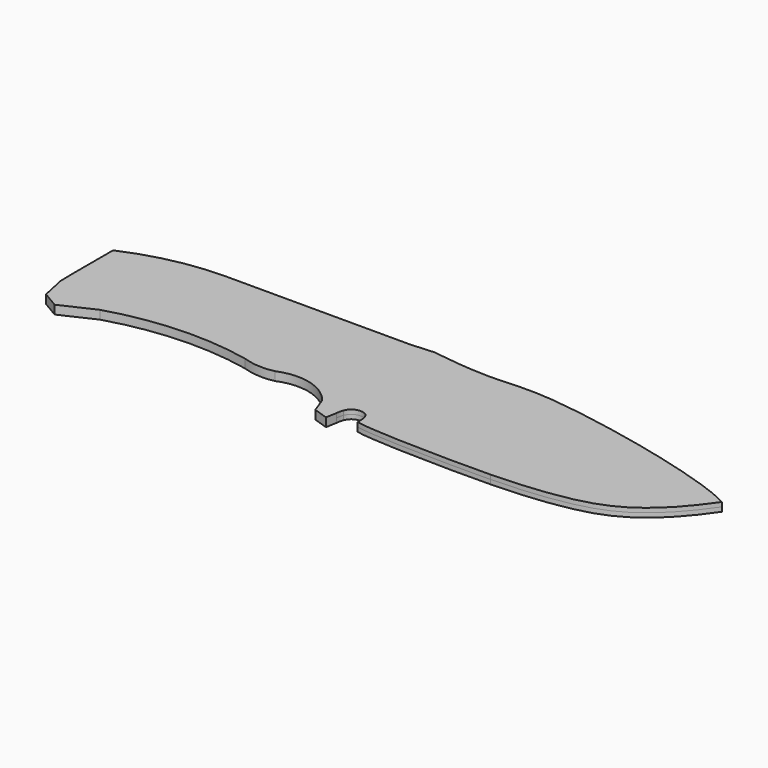
from build123d import *

# Parameters (mm, degrees)
F1_DEPTH      = 1.5875
F2_DEPTH      = 1.5875
F3_DEPTH      = 1.5875
F3_DEPTH_BACK = 1.5875


with BuildPart() as f1:
    # F0 (on Top) → F1 (new body)
    with BuildSketch(Plane.XY):
        with BuildLine():
            Line((-101.5884131193, -18.8973024487), (-89.4398242235, -13.247538358))
            ThreePointArc((-89.4398242235, -13.247538358), (-63.9605427044, -8.860636447), (-38.1898805499, -10.9370918944))
            ThreePointArc((-38.1898805499, -10.9370918944), (-32.4660196125, -12.0949158123), (-26.640561875, -11.6860363632))
            ThreePointArc((-26.640561875, -11.6860363632), (-14.7586255851, -10.8029487579), (-4.7904760577, -17.3295289278))
            Line((-4.7904760577, -17.3295289278), (-2.6797975879, -23.1362432241))
            Line((-2.6797975879, -23.1362432241), (2.6188781485, -24.9024685472))
            Line((2.6188781485, -24.9024685472), (3.3253682777, -20.8401493728))
            add(Edge.make_bspline(
                [(3.8662650694, -18.4174778796), (3.611906377, -19.0656781935), (3.4231723145, -19.8621077155), (3.3253682777, -20.8401493728)],
                knots=[0.9006018819, 0.9006018819, 0.9006018819, 0.9006018819, 1, 1, 1, 1], degree=3))
            ThreePointArc((3.8662650694, -18.4174778796), (9.6420642738, -2.2568424674), (17.1927238868, 13.1546315953))
            add(Edge.make_bspline(
                [(19.2337166518, 14.6902082488), (18.6318591554, 14.4187646386), (17.59365201, 13.7314004824), (17.1927238868, 13.1546315953)],
                knots=[0, 0, 0, 0, 2.5541431294, 2.5541431294, 2.5541431294, 2.5541431294], degree=3))
            add(Edge.make_bspline(
                [(83.2952766221, 17.6661035357), (80.4809135378, 16.6286477767), (74.7370679332, 14.5111030682), (64.3408485466, 15.5369801541), (53.4850420824, 16.9731062249), (39.4603352069, 19.1405437268), (27.191213055, 18.2323443266), (21.8879047106, 15.9122857049), (19.2337166518, 14.6902082488)],
                knots=[0, 0, 0, 0, 0.1519877595, 0.3134001461, 0.4827768067, 0.6751193638, 0.8516699299, 1, 1, 1, 1], degree=3))
            add(Edge.make_bspline(
                [(83.2952766221, 17.6661035357), (75.4343407531, 19.4467237762), (66.8526441437, 21.1255448484), (57.3383793235, 22.663006559)],
                knots=[0.6805820288, 0.6805820288, 0.6805820288, 0.6805820288, 1, 1, 1, 1], degree=3))
            add(Edge.make_bspline(
                [(57.3383793235, 22.663006559), (51.3860041145, 23.5646728097), (39.5545116639, 25.1027234946), (25.1310915838, 23.9086109925), (18.7821781751, 24.0979107297), (10.2035533763, 24.7548514651), (6.1330744065, 25.4)],
                knots=[0, 0, 0, 0, 0.3045684162, 0.5682644154, 0.7491025184, 1, 1, 1, 1], degree=3))
            Line((6.1330744065, 25.4), (1.5553526144, 25.95639154))
            Line((1.5553526144, 25.95639154), (-6.6837654449, 25.4))
            Line((-6.6837654449, 25.4), (-20.9665372968, 25.4))
            Line((-20.9665372968, 25.4), (-73.9454105496, 25.4))
            ThreePointArc((-73.9454105496, 25.4), (-92.1467392312, 23.4934617336), (-109.5579192042, 17.8566128016))
            Line((-109.5579192042, 17.8566128016), (-109.5579192042, -1.152076642))
            Line((-109.5579192042, -1.152076642), (-109.4557195902, -6.2945531681))
            Line((-109.4557195902, -6.2945531681), (-107.5249388814, -15.3543483466))
            Line((-107.5249388814, -15.3543483466), (-101.5884131193, -18.8973024487))
        make_face()
    extrude(amount=F1_DEPTH)

    # F2 (add): a face of the model
    f2_faces = [f1.faces().sort_by_distance(p)[0] for p in [
        (-39.6121775227, 7.2978383867, 0),
    ]]
    extrude(f2_faces, amount=F2_DEPTH)

    # F0 (on Top) → F3 (join, two sides)
    with BuildSketch(Plane.XY) as f3_sk:
        with BuildLine():
            ThreePointArc((17.1927238868, 13.1546315953), (9.6420642738, -2.2568424674), (3.8662650694, -18.4174778796))
            add(Edge.make_bspline(
                [(11.5028988087, -21.510926818), (11.6403456009, -18.4112889852), (10.6938808175, -15.9301904115), (7.0077218043, -15.3266314496), (4.5871981853, -16.580272839), (3.8662650694, -18.4174778796)],
                knots=[0, 0, 0, 0, 0.354240575, 0.6188761258, 0.9006018819, 0.9006018819, 0.9006018819, 0.9006018819], degree=3))
            add(Edge.make_bspline(
                [(61.4279137712, -23.1528356665), (55.5369847146, -23.2709089404), (40.3623363295, -23.3563614522), (16.3717952101, -22.5488794213), (11.5028988087, -21.510926818)],
                knots=[0, 0, 0, 0, 0.4717155518, 1, 1, 1, 1], degree=3))
            add(Edge.make_bspline(
                [(61.4279137712, -23.1528356665), (69.7385266657, -23.0155210755), (95.0642582897, -21.4162605515), (111.9931118186, -10.1613653445), (119.5524930257, -1.1537255666), (123.7895080587, 4.9438558941)],
                knots=[0, 0, 0, 0, 0.3929440031, 0.7004054275, 1, 1, 1, 1], degree=3))
            add(Edge.make_bspline(
                [(123.7895080587, 4.9438558941), (118.1227580639, 7.9880751421), (105.1050021221, 12.2740321559), (89.5844015046, 16.2415221313), (83.2952766221, 17.6661035357)],
                knots=[0, 0, 0, 0, 0.425032366, 0.6805820288, 0.6805820288, 0.6805820288, 0.6805820288], degree=3))
            add(Edge.make_bspline(
                [(83.2952766221, 17.6661035357), (80.4809135378, 16.6286477767), (74.7370679332, 14.5111030682), (64.3408485466, 15.5369801541), (53.4850420824, 16.9731062249), (39.4603352069, 19.1405437268), (27.191213055, 18.2323443266), (21.8879047106, 15.9122857049), (19.2337166518, 14.6902082488)],
                knots=[0, 0, 0, 0, 0.1519877595, 0.3134001461, 0.4827768067, 0.6751193638, 0.8516699299, 1, 1, 1, 1], degree=3))
            add(Edge.make_bspline(
                [(19.2337166518, 14.6902082488), (18.6318591554, 14.4187646386), (17.59365201, 13.7314004824), (17.1927238868, 13.1546315953)],
                knots=[0, 0, 0, 0, 2.5541431294, 2.5541431294, 2.5541431294, 2.5541431294], degree=3))
        make_face()
    extrude(amount=F3_DEPTH)
    extrude(f3_sk.sketch, amount=-F3_DEPTH_BACK)


solid = f1.part
